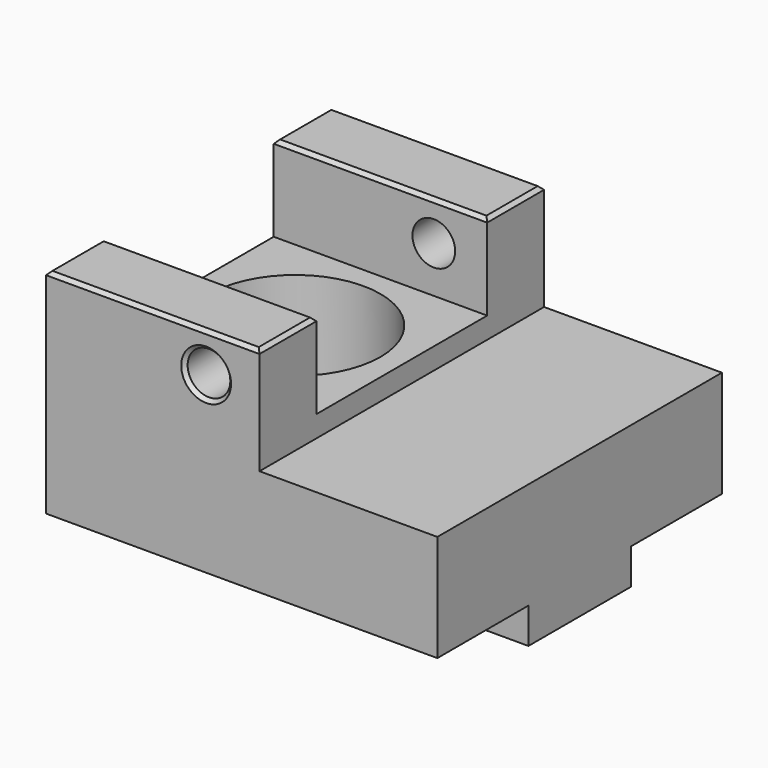
from build123d import *

# Parameters (mm, degrees)
F0_W           = 30
F0_H           = 50
F1_DEPTH       = 30
F2_W           = 50
F2_H           = 15
F3_DEPTH       = 25
F5_W           = 55
F5_H           = 18
F6_DEPTH       = 5
F4_R           = 3
F7_DEPTH       = 50.001
F8_SIZE        = 0.5
F9_W           = 30
F9_H           = 12
F10_DEPTH      = 30.001
F11_R          = 12
F12_DEPTH      = 12.001
F12_DEPTH_BACK = 16
F13_SIZE       = 0.5
F14_R          = 8
F15_DEPTH      = 7.001


with BuildPart() as f1:
    # F0 (on Top) → F1 (new body)
    with BuildSketch(Plane.XY):
        with Locations((-15, 25)):
            Rectangle(F0_W, F0_H)
    extrude(amount=F1_DEPTH)

    # F2 (on face) → F3 (join)
    with BuildSketch(Plane.YZ):
        with Locations((25, 7.5)):
            Rectangle(F2_W, F2_H)
    extrude(amount=F3_DEPTH)

    # F5 (on face) → F6 (join)
    with BuildSketch(Plane(origin=(0, 0, 0), x_dir=(1, 0, 0), z_dir=(0, 0, -1))):
        with Locations((-2.5, -25)):
            Rectangle(F5_W, F5_H)
    extrude(amount=F6_DEPTH)

    # F4 (on face) → F7 (cut, through all)
    with BuildSketch(Plane.XZ):
        with Locations((-7.5, 24.5)):
            Circle(F4_R)
    extrude(amount=-F7_DEPTH, mode=Mode.SUBTRACT)

    # F8
    f8_edges = [f1.edges().sort_by_distance(p)[0] for p in [
        (-10.5, 0, 24.5),
        (-10.5, 50, 24.5),
    ]]
    chamfer(f8_edges, length=F8_SIZE)

    # F9 (on face) → F10 (cut, through all)
    with BuildSketch(Plane.YZ):
        with Locations((25, 24)):
            Rectangle(F9_W, F9_H)
    extrude(amount=-F10_DEPTH, mode=Mode.SUBTRACT)

    # F11 (on face) → F12 (cut, two sides)
    with BuildSketch(Plane.XY.offset(18)) as f12_sk:
        with Locations((-15, 25)):
            Circle(F11_R)
    extrude(amount=F12_DEPTH, mode=Mode.SUBTRACT)
    extrude(f12_sk.sketch, amount=-F12_DEPTH_BACK, mode=Mode.SUBTRACT)

    # F13
    f13_edges = [f1.edges().sort_by_distance(p)[0] for p in [
        (-30, 5, 30),
        (-15, 10, 30),
        (0, 5, 30),
        (-15, 0, 30),
        (-15, 40, 30),
        (-30, 45, 30),
        (-15, 50, 30),
        (0, 45, 30),
    ]]
    chamfer(f13_edges, length=F13_SIZE)

    # F14 (on face) → F15 (cut, through all)
    with BuildSketch(Plane.XY.offset(2)):
        with Locations((-15, 25)):
            Circle(F14_R)
    extrude(amount=-F15_DEPTH, mode=Mode.SUBTRACT)


solid = f1.part
